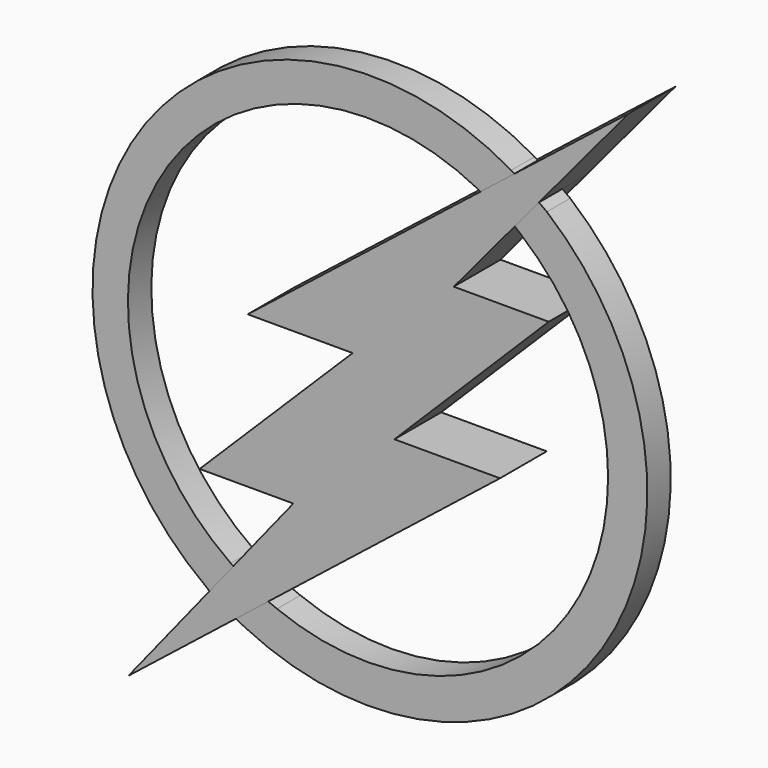
from build123d import *

# Parameters (mm, degrees)
F1_DEPTH = 6.35
F2_DEPTH = 12.7


with BuildPart() as f1:
    # F0 (on Front) → F1 (new body)
    with BuildSketch(Plane.XZ):
        with BuildLine():
            Line((23.819773, 49.403969), (22.099195, 50.639186))
            Line((22.099195, 50.639186), (16.843062, 44.350598))
            Line((16.843062, 44.350598), (18.119313, 43.296337))
            ThreePointArc((18.119313, 43.296337), (29.758985, -23.842782), (-34.813512, -45.603663))
            Line((-34.813512, -45.603663), (-36.725838, -44.83173))
            Line((-36.725838, -44.83173), (-43.782095, -50.428072))
            Line((-43.782095, -50.428072), (-41.735496, -51.439852))
            ThreePointArc((-41.735496, -51.439852), (35.871715, -30.160182), (23.819773, 49.403969))
        make_face()
        with BuildLine():
            ThreePointArc((-44.857178, -40.174656), (-59.712169, 29.533021), (8.89, 48.861068))
            Line((8.89, 48.861068), (9.423844, 48.584196))
            Line((9.423844, 48.584196), (16.810112, 54.411785))
            Line((16.810112, 54.411785), (16.083434, 54.83298))
            ThreePointArc((16.083434, 54.83298), (-65.067911, 35.499459), (-50.014734, -46.553742))
            Line((-50.014734, -46.553742), (-49.524635, -47.045834))
            Line((-49.524635, -47.045834), (-44.273766, -40.508794))
            Line((-44.273766, -40.508794), (-44.857178, -40.174656))
        make_face()
    extrude(amount=-F1_DEPTH)


with BuildPart() as f2:
    # F0 (on Front) → F2 (new body)
    with BuildSketch(Plane.XZ):
        Polygon((16.810112, 54.411785), (9.423844, 48.584196), (-41.179683, 8.65922), (-14.183283, 19.272977), (41.599773, 73.970236), align=None)
        Polygon((41.599773, 73.970236), (-14.183283, 19.272977), (3.596717, 28.502291), (16.843062, 44.350598), (22.099195, 50.639186), align=None)
        Polygon((3.596717, 28.502291), (-14.183283, 19.272977), (2.375191, 19.272977), (24.226947, 28.502291), align=None)
        Polygon((-14.183283, 19.272977), (-41.179683, 8.65922), (-18.377852, 8.65922), (2.375191, 19.272977), align=None)
        Polygon((2.375191, 19.272977), (-18.377852, 8.65922), (-51.630523, -24.322001), (-29.24878, -14.251146), align=None)
        Polygon((24.226947, 28.502291), (2.375191, 19.272977), (-29.24878, -14.251146), (-9.297175, -4.886107), align=None)
        Polygon((-51.630523, -24.322001), (-31.271745, -24.322001), (-13.097481, -14.251146), (-29.24878, -14.251146), align=None)
        Polygon((-31.271745, -24.322001), (-44.273766, -40.508794), (-49.524635, -47.045834), (-67.089812, -68.913503), (-13.097481, -14.251146), align=None)
        Polygon((-13.097481, -14.251146), (-67.089812, -68.913503), (-65.080233, -67.319699), (-43.782095, -50.428072), (-36.725838, -44.83173), (13.640382, -4.886107), align=None)
        Polygon((-29.24878, -14.251146), (-13.097481, -14.251146), (13.640382, -4.886107), (-9.297175, -4.886107), align=None)
    extrude(amount=-F2_DEPTH)


solid = Compound([f1.part, f2.part])
